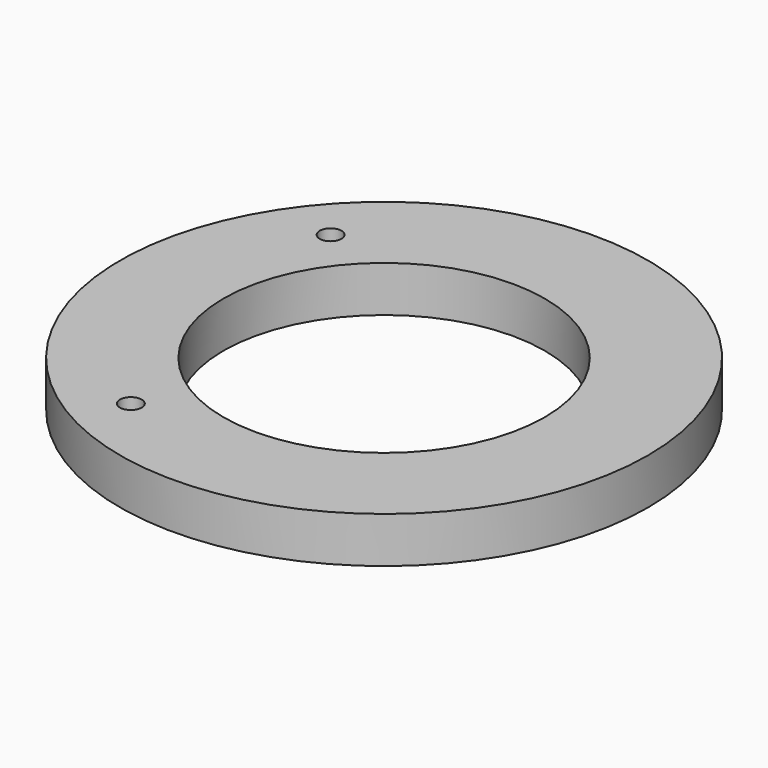
from build123d import *

# Parameters (mm, degrees)
F0_R     = 115
F0_R_2   = 70
F1_DEPTH = 20
F2_R     = 4.7625
F3_DEPTH = 25


with BuildPart() as f1:
    # F0 (on Top) → F1 (new body)
    with BuildSketch(Plane.XY):
        Circle(F0_R)
        Circle(F0_R_2, mode=Mode.SUBTRACT)
    extrude(amount=F1_DEPTH)

    # F2 (on face) → F3 (cut)
    with BuildSketch(Plane.XY.offset(20)):
        with Locations((-70.859111, 59.457854)):
            Circle(F2_R)
        with Locations((-46.25, -80.10735)):
            Circle(F2_R)
    extrude(amount=-F3_DEPTH, mode=Mode.SUBTRACT)


solid = f1.part
